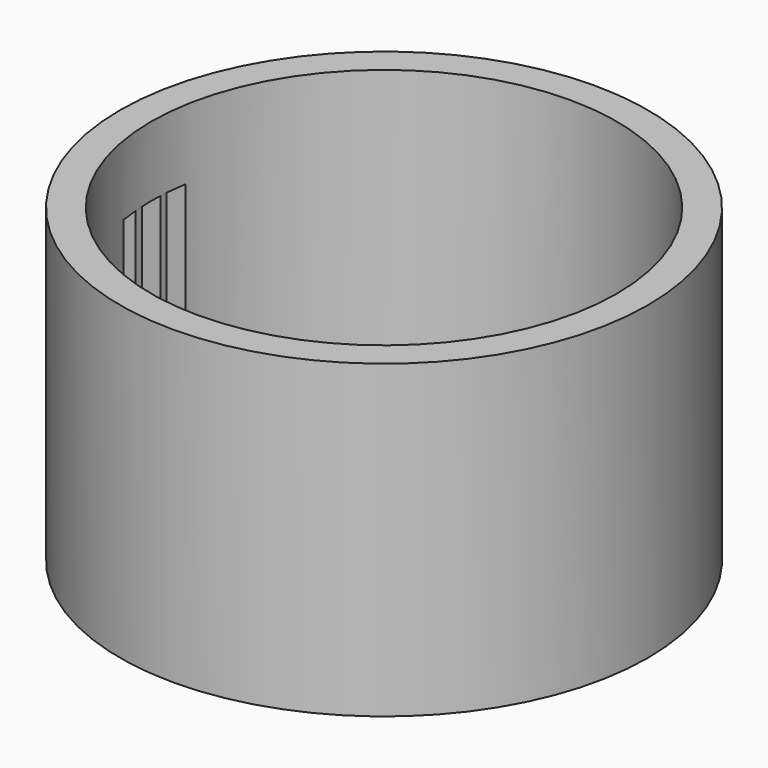
from build123d import *

# Parameters (mm, degrees)
F0_R     = 17
F0_R_2   = 15
F1_DEPTH = 20
F3_W     = 5
F3_H     = 11
F4_DEPTH = 25
F5_W     = 0.5
F5_H     = 11
F6_DEPTH = 2


with BuildPart() as f1:
    # F0 (on Top) → F1 (new body)
    with BuildSketch(Plane.XY):
        Circle(F0_R)
        Circle(F0_R_2, mode=Mode.SUBTRACT)
    extrude(amount=F1_DEPTH)

    # F3 (on Right) → F4 (cut)
    with BuildSketch(Plane.YZ):
        with Locations((0, 10)):
            Rectangle(F3_W, F3_H)
    extrude(amount=-F4_DEPTH, mode=Mode.SUBTRACT)


with BuildPart() as f6:
    # F5 (on offset) → F6 (new body)
    with BuildSketch(Plane.YZ.offset(-17)):
        with Locations((-1, 10)):
            Rectangle(F5_W, F5_H)
        with Locations((1, 10)):
            Rectangle(F5_W, F5_H)
    extrude(amount=F6_DEPTH)


solid = Compound([f1.part, f6.part])
